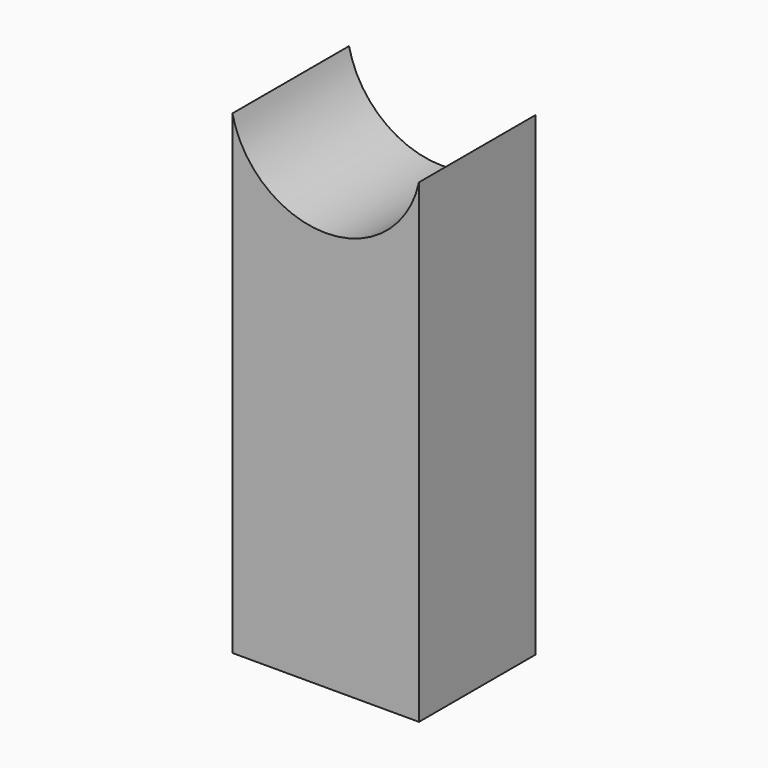
from build123d import *

# Parameters (mm, degrees)
F1_DEPTH = 25
F2_DEPTH = 5


with BuildPart() as f1:
    # F0 (on Front) → F1 (new body)
    with BuildSketch(Plane.XZ):
        with BuildLine():
            Line((0, 81.489473), (0, 0))
            Line((0, 0), (32, 0))
            Line((32, 0), (32, 81.489473))
            ThreePointArc((32, 81.489473), (16, 68.619408), (0, 81.489473))
        make_face()
    extrude(amount=F1_DEPTH)

    # F0 (on Front) → F2 (join)
    with BuildSketch(Plane.XZ):
        with BuildLine():
            Line((0, 81.489473), (0, 0))
            Line((0, 0), (32, 0))
            Line((32, 0), (32, 81.489473))
            ThreePointArc((32, 81.489473), (16, 68.619408), (0, 81.489473))
        make_face()
    extrude(amount=F2_DEPTH)


solid = f1.part
